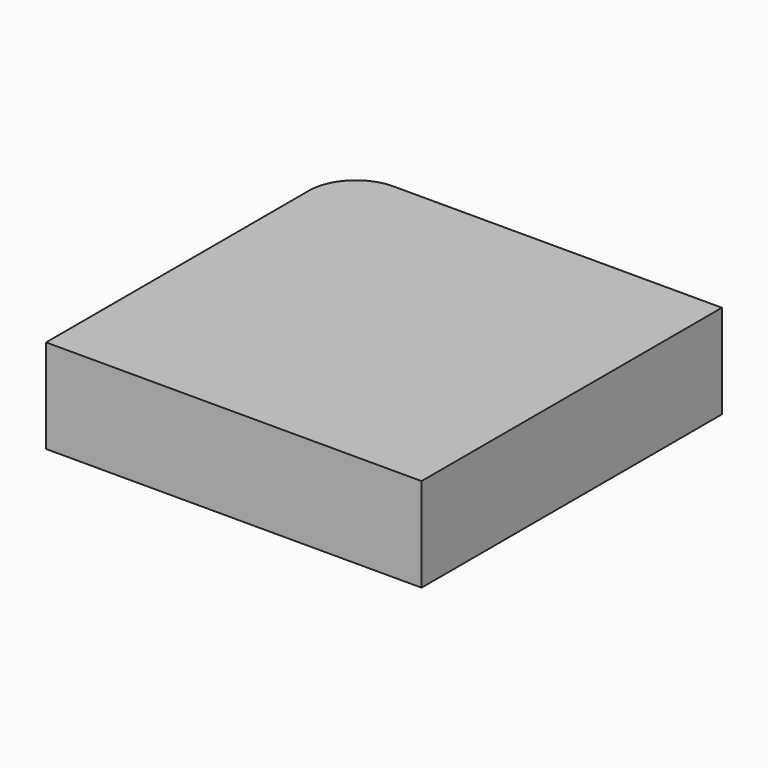
from build123d import *

# Parameters (mm, degrees)
F1_DEPTH = 25


with BuildPart() as f1:
    # F0 (on Top) → F1 (new body)
    with BuildSketch(Plane.XY):
        with BuildLine():
            Line((50, 50), (-37.5, 50))
            ThreePointArc((-37.5, 50), (-46.338835, 46.338835), (-50, 37.5))
            Line((-50, 37.5), (-50, -50))
            Line((-50, -50), (50, -50))
            Line((50, -50), (50, 50))
        make_face()
    extrude(amount=F1_DEPTH)


solid = f1.part
